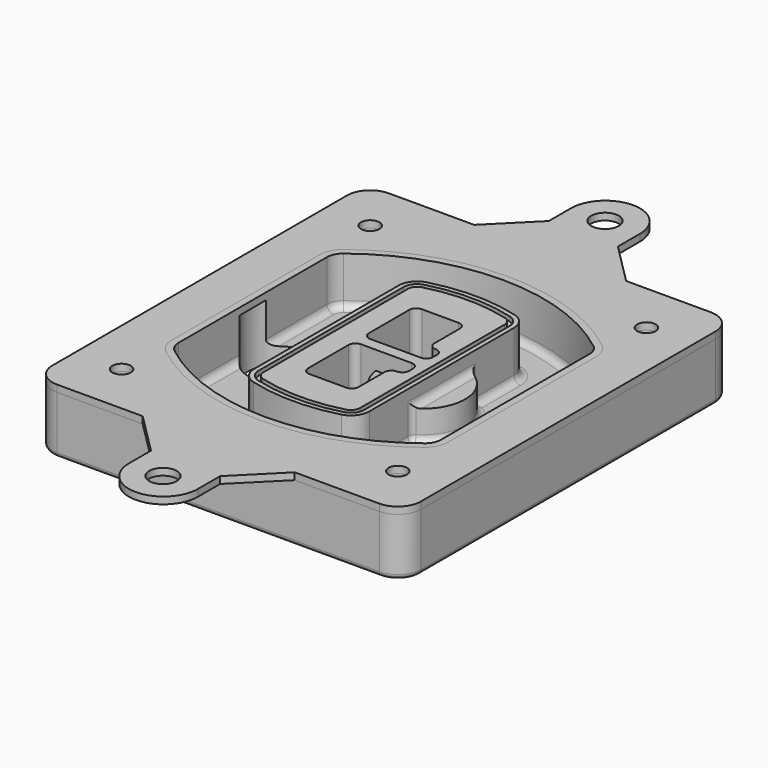
from build123d import *

# Parameters (mm, degrees)
F0_R      = 4
F1_DEPTH  = 25
F2_DEPTH  = 3
F3_DEPTH  = 18
F5_DEPTH  = 21
F6_DEPTH  = 2
F8_DEPTH  = 20
F9_DEPTH  = 16
F10_DEPTH = 25
F7_R      = 6
F7_R_2    = 4
F11_DEPTH = 6
F13_DEPTH = 9
F14_R     = 3
F15_R     = 2
F16_R     = 4
F16_R_2   = 6
F17_DEPTH = 3


with BuildPart() as f1:
    # F0 (on Top) → F1 (new body)
    with BuildSketch(Plane.XY):
        with BuildLine():
            ThreePointArc((-80, -80), (-77.0710678119, -87.0710678119), (-70, -90))
            Line((-70, -90), (70, -90))
            ThreePointArc((70, -90), (77.0710678119, -87.0710678119), (80, -80))
            Line((80, -80), (80, 80))
            ThreePointArc((80, 80), (77.0710678119, 87.0710678119), (70, 90))
            Line((70, 90), (-70, 90))
            ThreePointArc((-70, 90), (-77.0710678119, 87.0710678119), (-80, 80))
            Line((-80, 80), (-80, -80))
        make_face()
        with Locations((-60, -67.5)):
            Circle(F0_R, mode=Mode.SUBTRACT)
        with Locations((60, -67.5)):
            Circle(F0_R, mode=Mode.SUBTRACT)
        with Locations((-60, 67.5)):
            Circle(F0_R, mode=Mode.SUBTRACT)
        with BuildLine():
            ThreePointArc((-64, 40.2934422872), (-62.5820384798, 46.4328484224), (-58.6153846154, 51.3286200352))
            ThreePointArc((-58.6153846154, 51.3286200352), (0, 71.5), (58.6153846154, 51.3286200352))
            ThreePointArc((58.6153846154, 51.3286200352), (62.5820384798, 46.4328484224), (64, 40.2934422872))
            Line((64, 40.2934422872), (64, -40.2934422872))
            ThreePointArc((64, -40.2934422872), (62.5820384798, -46.4328484224), (58.6153846154, -51.3286200352))
            ThreePointArc((58.6153846154, -51.3286200352), (0, -71.5), (-58.6153846154, -51.3286200352))
            ThreePointArc((-58.6153846154, -51.3286200352), (-62.5820384798, -46.4328484224), (-64, -40.2934422872))
            Line((-64, -40.2934422872), (-64, 40.2934422872))
        make_face(mode=Mode.SUBTRACT)
        with Locations((60, 67.5)):
            Circle(F0_R, mode=Mode.SUBTRACT)
        with BuildLine():
            ThreePointArc((58.6153846154, 51.3286200352), (0, 71.5), (-58.6153846154, 51.3286200352))
            ThreePointArc((-58.6153846154, 51.3286200352), (-62.5820384798, 46.4328484224), (-64, 40.2934422872))
            Line((-64, 40.2934422872), (-64, -40.2934422872))
            ThreePointArc((-64, -40.2934422872), (-62.5820384798, -46.4328484224), (-58.6153846154, -51.3286200352))
            ThreePointArc((-58.6153846154, -51.3286200352), (0, -71.5), (58.6153846154, -51.3286200352))
            ThreePointArc((58.6153846154, -51.3286200352), (62.5820384798, -46.4328484224), (64, -40.2934422872))
            Line((64, -40.2934422872), (64, 40.2934422872))
            ThreePointArc((64, 40.2934422872), (62.5820384798, 46.4328484224), (58.6153846154, 51.3286200352))
        make_face()
        with BuildLine():
            Line((-60, -40.2934422872), (-60, 40.2934422872))
            ThreePointArc((-60, 40.2934422872), (-58.9871703427, 44.6787323838), (-56.1538461538, 48.1757121072))
            ThreePointArc((-56.1538461538, 48.1757121072), (0, 67.5), (56.1538461538, 48.1757121072))
            ThreePointArc((56.1538461538, 48.1757121072), (58.9871703427, 44.6787323838), (60, 40.2934422872))
            Line((60, 40.2934422872), (60, -40.2934422872))
            ThreePointArc((60, -40.2934422872), (58.9871703427, -44.6787323838), (56.1538461538, -48.1757121072))
            ThreePointArc((56.1538461538, -48.1757121072), (0, -67.5), (-56.1538461538, -48.1757121072))
            ThreePointArc((-56.1538461538, -48.1757121072), (-58.9871703427, -44.6787323838), (-60, -40.2934422872))
        make_face(mode=Mode.SUBTRACT)
        with BuildLine():
            ThreePointArc((-56.1538461538, 48.1757121072), (-58.9871703427, 44.6787323838), (-60, 40.2934422872))
            Line((-60, 40.2934422872), (-60, -40.2934422872))
            ThreePointArc((-60, -40.2934422872), (-58.9871703427, -44.6787323838), (-56.1538461538, -48.1757121072))
            ThreePointArc((-56.1538461538, -48.1757121072), (0, -67.5), (56.1538461538, -48.1757121072))
            ThreePointArc((56.1538461538, -48.1757121072), (58.9871703427, -44.6787323838), (60, -40.2934422872))
            Line((60, -40.2934422872), (60, 40.2934422872))
            ThreePointArc((60, 40.2934422872), (58.9871703427, 44.6787323838), (56.1538461538, 48.1757121072))
            ThreePointArc((56.1538461538, 48.1757121072), (0, 67.5), (-56.1538461538, 48.1757121072))
        make_face()
        with BuildLine():
            ThreePointArc((54.3076923077, 45.8110311612), (56.2910192399, 43.3631453548), (57, 40.2934422872))
            Line((57, 40.2934422872), (57, -40.2934422872))
            ThreePointArc((57, -40.2934422872), (56.2910192399, -43.3631453548), (54.3076923077, -45.8110311612))
            ThreePointArc((54.3076923077, -45.8110311612), (0, -64.5), (-54.3076923077, -45.8110311612))
            ThreePointArc((-54.3076923077, -45.8110311612), (-56.2910192399, -43.3631453548), (-57, -40.2934422872))
            Line((-57, -40.2934422872), (-57, 40.2934422872))
            ThreePointArc((-57, 40.2934422872), (-56.2910192399, 43.3631453548), (-54.3076923077, 45.8110311612))
            ThreePointArc((-54.3076923077, 45.8110311612), (0, 64.5), (54.3076923077, 45.8110311612))
        make_face(mode=Mode.SUBTRACT)
        with BuildLine():
            Line((57, -40.2934422872), (57, 40.2934422872))
            ThreePointArc((57, 40.2934422872), (56.2910192399, 43.3631453548), (54.3076923077, 45.8110311612))
            ThreePointArc((54.3076923077, 45.8110311612), (0, 64.5), (-54.3076923077, 45.8110311612))
            ThreePointArc((-54.3076923077, 45.8110311612), (-56.2910192399, 43.3631453548), (-57, 40.2934422872))
            Line((-57, 40.2934422872), (-57, -40.2934422872))
            ThreePointArc((-57, -40.2934422872), (-56.2910192399, -43.3631453548), (-54.3076923077, -45.8110311612))
            ThreePointArc((-54.3076923077, -45.8110311612), (0, -64.5), (54.3076923077, -45.8110311612))
            ThreePointArc((54.3076923077, -45.8110311612), (56.2910192399, -43.3631453548), (57, -40.2934422872))
        make_face()
    extrude(amount=-F1_DEPTH)

    # F0 (on Top) → F2 (join)
    with BuildSketch(Plane.XY):
        with BuildLine():
            ThreePointArc((-56.1538461538, 48.1757121072), (-58.9871703427, 44.6787323838), (-60, 40.2934422872))
            Line((-60, 40.2934422872), (-60, -40.2934422872))
            ThreePointArc((-60, -40.2934422872), (-58.9871703427, -44.6787323838), (-56.1538461538, -48.1757121072))
            ThreePointArc((-56.1538461538, -48.1757121072), (0, -67.5), (56.1538461538, -48.1757121072))
            ThreePointArc((56.1538461538, -48.1757121072), (58.9871703427, -44.6787323838), (60, -40.2934422872))
            Line((60, -40.2934422872), (60, 40.2934422872))
            ThreePointArc((60, 40.2934422872), (58.9871703427, 44.6787323838), (56.1538461538, 48.1757121072))
            ThreePointArc((56.1538461538, 48.1757121072), (0, 67.5), (-56.1538461538, 48.1757121072))
        make_face()
        with BuildLine():
            ThreePointArc((54.3076923077, 45.8110311612), (56.2910192399, 43.3631453548), (57, 40.2934422872))
            Line((57, 40.2934422872), (57, -40.2934422872))
            ThreePointArc((57, -40.2934422872), (56.2910192399, -43.3631453548), (54.3076923077, -45.8110311612))
            ThreePointArc((54.3076923077, -45.8110311612), (0, -64.5), (-54.3076923077, -45.8110311612))
            ThreePointArc((-54.3076923077, -45.8110311612), (-56.2910192399, -43.3631453548), (-57, -40.2934422872))
            Line((-57, -40.2934422872), (-57, 40.2934422872))
            ThreePointArc((-57, 40.2934422872), (-56.2910192399, 43.3631453548), (-54.3076923077, 45.8110311612))
            ThreePointArc((-54.3076923077, 45.8110311612), (0, 64.5), (54.3076923077, 45.8110311612))
        make_face(mode=Mode.SUBTRACT)
    extrude(amount=F2_DEPTH)

    # F0 (on Top) → F3 (cut)
    with BuildSketch(Plane.XY):
        with BuildLine():
            Line((57, -40.2934422872), (57, 40.2934422872))
            ThreePointArc((57, 40.2934422872), (56.2910192399, 43.3631453548), (54.3076923077, 45.8110311612))
            ThreePointArc((54.3076923077, 45.8110311612), (0, 64.5), (-54.3076923077, 45.8110311612))
            ThreePointArc((-54.3076923077, 45.8110311612), (-56.2910192399, 43.3631453548), (-57, 40.2934422872))
            Line((-57, 40.2934422872), (-57, -40.2934422872))
            ThreePointArc((-57, -40.2934422872), (-56.2910192399, -43.3631453548), (-54.3076923077, -45.8110311612))
            ThreePointArc((-54.3076923077, -45.8110311612), (0, -64.5), (54.3076923077, -45.8110311612))
            ThreePointArc((54.3076923077, -45.8110311612), (56.2910192399, -43.3631453548), (57, -40.2934422872))
        make_face()
    extrude(amount=-F3_DEPTH, mode=Mode.SUBTRACT)

    # F4 (on face) → F5 (join, through all)
    with BuildSketch(Plane.XY.offset(3)):
        with BuildLine():
            ThreePointArc((-25, -39.2465276821), (-23.3511545998, -44.1109737193), (-19.0842911877, -46.9702398883))
            ThreePointArc((-19.0842911877, -46.9702398883), (0, -49.5), (19.0842911877, -46.9702398883))
            ThreePointArc((19.0842911877, -46.9702398883), (23.3511545998, -44.1109737193), (25, -39.2465276821))
            Line((25, -39.2465276821), (25, 39.2465276821))
            ThreePointArc((25, 39.2465276821), (23.3511545998, 44.1109737193), (19.0842911877, 46.9702398883))
            ThreePointArc((19.0842911877, 46.9702398883), (0, 49.5), (-19.0842911877, 46.9702398883))
            ThreePointArc((-19.0842911877, 46.9702398883), (-23.3511545998, 44.1109737193), (-25, 39.2465276821))
            Line((-25, 39.2465276821), (-25, -39.2465276821))
        make_face()
        with BuildLine():
            ThreePointArc((18.5632183908, 45.0393118368), (21.7633659499, 42.89486221), (23, 39.2465276821))
            Line((23, 39.2465276821), (23, -39.2465276821))
            ThreePointArc((23, -39.2465276821), (21.7633659499, -42.89486221), (18.5632183908, -45.0393118368))
            ThreePointArc((18.5632183908, -45.0393118368), (0, -47.5), (-18.5632183908, -45.0393118368))
            ThreePointArc((-18.5632183908, -45.0393118368), (-21.7633659499, -42.89486221), (-23, -39.2465276821))
            Line((-23, -39.2465276821), (-23, 39.2465276821))
            ThreePointArc((-23, 39.2465276821), (-21.7633659499, 42.89486221), (-18.5632183908, 45.0393118368))
            ThreePointArc((-18.5632183908, 45.0393118368), (0, 47.5), (18.5632183908, 45.0393118368))
        make_face(mode=Mode.SUBTRACT)
        with BuildLine():
            Line((23, -39.2465276821), (23, 39.2465276821))
            ThreePointArc((23, 39.2465276821), (21.7633659499, 42.89486221), (18.5632183908, 45.0393118368))
            ThreePointArc((18.5632183908, 45.0393118368), (0, 47.5), (-18.5632183908, 45.0393118368))
            ThreePointArc((-18.5632183908, 45.0393118368), (-21.7633659499, 42.89486221), (-23, 39.2465276821))
            Line((-23, 39.2465276821), (-23, -39.2465276821))
            ThreePointArc((-23, -39.2465276821), (-21.7633659499, -42.89486221), (-18.5632183908, -45.0393118368))
            ThreePointArc((-18.5632183908, -45.0393118368), (0, -47.5), (18.5632183908, -45.0393118368))
            ThreePointArc((18.5632183908, -45.0393118368), (21.7633659499, -42.89486221), (23, -39.2465276821))
        make_face()
        with BuildLine():
            ThreePointArc((18.0421455939, 43.1083837852), (20.1755772999, 41.6787507007), (21, 39.2465276821))
            Line((21, 39.2465276821), (21, -39.2465276821))
            ThreePointArc((21, -39.2465276821), (20.1755772999, -41.6787507007), (18.0421455939, -43.1083837852))
            ThreePointArc((18.0421455939, -43.1083837852), (0, -45.5), (-18.0421455939, -43.1083837852))
            ThreePointArc((-18.0421455939, -43.1083837852), (-20.1755772999, -41.6787507007), (-21, -39.2465276821))
            Line((-21, -39.2465276821), (-21, 39.2465276821))
            ThreePointArc((-21, 39.2465276821), (-20.1755772999, 41.6787507007), (-18.0421455939, 43.1083837852))
            ThreePointArc((-18.0421455939, 43.1083837852), (0, 45.5), (18.0421455939, 43.1083837852))
        make_face(mode=Mode.SUBTRACT)
        with BuildLine():
            Line((21, -39.2465276821), (21, 39.2465276821))
            ThreePointArc((21, 39.2465276821), (20.1755772999, 41.6787507007), (18.0421455939, 43.1083837852))
            ThreePointArc((18.0421455939, 43.1083837852), (0, 45.5), (-18.0421455939, 43.1083837852))
            ThreePointArc((-18.0421455939, 43.1083837852), (-20.1755772999, 41.6787507007), (-21, 39.2465276821))
            Line((-21, 39.2465276821), (-21, -39.2465276821))
            ThreePointArc((-21, -39.2465276821), (-20.1755772999, -41.6787507007), (-18.0421455939, -43.1083837852))
            ThreePointArc((-18.0421455939, -43.1083837852), (0, -45.5), (18.0421455939, -43.1083837852))
            ThreePointArc((18.0421455939, -43.1083837852), (20.1755772999, -41.6787507007), (21, -39.2465276821))
        make_face()
        with BuildLine():
            Line((-8, -2.5), (14, -2.5))
            ThreePointArc((14, -2.5), (16.1213203436, -3.3786796564), (17, -5.5))
            Line((17, -5.5), (17, -7.5))
            ThreePointArc((17, -7.5), (16.1213203436, -9.6213203436), (14, -10.5))
            ThreePointArc((14, -10.5), (11.8786796564, -11.3786796564), (11, -13.5))
            Line((11, -13.5), (11, -27.5))
            ThreePointArc((11, -27.5), (10.1213203436, -29.6213203436), (8, -30.5))
            Line((8, -30.5), (-8, -30.5))
            ThreePointArc((-8, -30.5), (-10.1213203436, -29.6213203436), (-11, -27.5))
            Line((-11, -27.5), (-11, -5.5))
            ThreePointArc((-11, -5.5), (-10.1213203436, -3.3786796564), (-8, -2.5))
        make_face(mode=Mode.SUBTRACT)
        with BuildLine():
            ThreePointArc((-8, 2.5), (-10.1213203436, 3.3786796564), (-11, 5.5))
            Line((-11, 5.5), (-11, 27.5))
            ThreePointArc((-11, 27.5), (-10.1213203436, 29.6213203436), (-8, 30.5))
            Line((-8, 30.5), (8, 30.5))
            ThreePointArc((8, 30.5), (10.1213203436, 29.6213203436), (11, 27.5))
            Line((11, 27.5), (11, 13.5))
            ThreePointArc((11, 13.5), (11.8786796564, 11.3786796564), (14, 10.5))
            ThreePointArc((14, 10.5), (16.1213203436, 9.6213203436), (17, 7.5))
            Line((17, 7.5), (17, 5.5))
            ThreePointArc((17, 5.5), (16.1213203436, 3.3786796564), (14, 2.5))
            Line((14, 2.5), (-8, 2.5))
        make_face(mode=Mode.SUBTRACT)
    extrude(amount=-F5_DEPTH)

    # F4 (on face) → F6 (cut)
    with BuildSketch(Plane.XY.offset(3)):
        with BuildLine():
            Line((23, -39.2465276821), (23, 39.2465276821))
            ThreePointArc((23, 39.2465276821), (21.7633659499, 42.89486221), (18.5632183908, 45.0393118368))
            ThreePointArc((18.5632183908, 45.0393118368), (0, 47.5), (-18.5632183908, 45.0393118368))
            ThreePointArc((-18.5632183908, 45.0393118368), (-21.7633659499, 42.89486221), (-23, 39.2465276821))
            Line((-23, 39.2465276821), (-23, -39.2465276821))
            ThreePointArc((-23, -39.2465276821), (-21.7633659499, -42.89486221), (-18.5632183908, -45.0393118368))
            ThreePointArc((-18.5632183908, -45.0393118368), (0, -47.5), (18.5632183908, -45.0393118368))
            ThreePointArc((18.5632183908, -45.0393118368), (21.7633659499, -42.89486221), (23, -39.2465276821))
        make_face()
        with BuildLine():
            ThreePointArc((18.0421455939, 43.1083837852), (20.1755772999, 41.6787507007), (21, 39.2465276821))
            Line((21, 39.2465276821), (21, -39.2465276821))
            ThreePointArc((21, -39.2465276821), (20.1755772999, -41.6787507007), (18.0421455939, -43.1083837852))
            ThreePointArc((18.0421455939, -43.1083837852), (0, -45.5), (-18.0421455939, -43.1083837852))
            ThreePointArc((-18.0421455939, -43.1083837852), (-20.1755772999, -41.6787507007), (-21, -39.2465276821))
            Line((-21, -39.2465276821), (-21, 39.2465276821))
            ThreePointArc((-21, 39.2465276821), (-20.1755772999, 41.6787507007), (-18.0421455939, 43.1083837852))
            ThreePointArc((-18.0421455939, 43.1083837852), (0, 45.5), (18.0421455939, 43.1083837852))
        make_face(mode=Mode.SUBTRACT)
    extrude(amount=-F6_DEPTH, mode=Mode.SUBTRACT)

    # F7 (on face) → F8 (join)
    with BuildSketch(Plane(origin=(0, 0, -25), x_dir=(1, 0, 0), z_dir=(0, 0, -1))):
        with BuildLine():
            ThreePointArc((3.28842436, 0), (16.7567035675, 13.4682792075), (30.224982775, 0))
            Line((30.224982775, 0), (35.224982775, 0))
            ThreePointArc((35.224982775, 0), (16.7567035675, 18.4682792075), (-1.71157564, 0))
            Line((-1.71157564, 0), (3.28842436, 0))
        make_face()
        with BuildLine():
            Line((3.28842436, 0), (30.224982775, 0))
            ThreePointArc((30.224982775, 0), (16.7567035675, 13.4682792075), (3.28842436, 0))
        make_face()
        with BuildLine():
            ThreePointArc((3.28842436, 0), (16.7567035675, -13.4682792075), (30.224982775, 0))
            Line((30.224982775, 0), (3.28842436, 0))
        make_face()
        with BuildLine():
            Line((35.224982775, 0), (30.224982775, 0))
            ThreePointArc((30.224982775, 0), (16.7567035675, -13.4682792075), (3.28842436, 0))
            Line((3.28842436, 0), (-1.71157564, 0))
            ThreePointArc((-1.71157564, 0), (16.7567035675, -18.4682792075), (35.224982775, 0))
        make_face()
    extrude(amount=-F8_DEPTH)

    # F7 (on face) → F9 (cut)
    with BuildSketch(Plane(origin=(0, 0, -25), x_dir=(1, 0, 0), z_dir=(0, 0, -1))):
        with BuildLine():
            Line((3.28842436, 0), (30.224982775, 0))
            ThreePointArc((30.224982775, 0), (16.7567035675, 13.4682792075), (3.28842436, 0))
        make_face()
        with BuildLine():
            ThreePointArc((3.28842436, 0), (16.7567035675, -13.4682792075), (30.224982775, 0))
            Line((30.224982775, 0), (3.28842436, 0))
        make_face()
    extrude(amount=-F9_DEPTH, mode=Mode.SUBTRACT)

    # F7 (on face) → F10 (cut)
    with BuildSketch(Plane(origin=(0, 0, -25), x_dir=(1, 0, 0), z_dir=(0, 0, -1))):
        with BuildLine():
            Line((-59.0318229325, 0), (-32.0952645175, 0))
            ThreePointArc((-32.0952645175, 0), (-45.563543725, 13.4682792075), (-59.0318229325, 0))
        make_face()
        with BuildLine():
            ThreePointArc((-59.0318229325, 0), (-45.563543725, -13.4682792075), (-32.0952645175, 0))
            Line((-32.0952645175, 0), (-59.0318229325, 0))
        make_face()
    extrude(amount=-F10_DEPTH, mode=Mode.SUBTRACT)

    # F7 (on face) → F11 (cut)
    with BuildSketch(Plane(origin=(0, 0, -25), x_dir=(1, 0, 0), z_dir=(0, 0, -1))):
        with Locations((60, -67.5)):
            Circle(F7_R)
        with Locations((60, -67.5)):
            Circle(F7_R_2, mode=Mode.SUBTRACT)
        with Locations((60, -67.5)):
            Circle(F7_R)
        with Locations((60, -67.5)):
            Circle(F7_R_2, mode=Mode.SUBTRACT)
        with Locations((-60, -67.5)):
            Circle(F7_R)
        with Locations((-60, -67.5)):
            Circle(F7_R_2, mode=Mode.SUBTRACT)
        with Locations((-60, -67.5)):
            Circle(F7_R)
        with Locations((-60, -67.5)):
            Circle(F7_R_2, mode=Mode.SUBTRACT)
        with Locations((-60, 67.5)):
            Circle(F7_R)
        with Locations((-60, 67.5)):
            Circle(F7_R_2, mode=Mode.SUBTRACT)
        with Locations((-60, 67.5)):
            Circle(F7_R)
        with Locations((-60, 67.5)):
            Circle(F7_R_2, mode=Mode.SUBTRACT)
        with Locations((60, 67.5)):
            Circle(F7_R)
        with Locations((60, 67.5)):
            Circle(F7_R_2, mode=Mode.SUBTRACT)
        with Locations((60, 67.5)):
            Circle(F7_R)
        with Locations((60, 67.5)):
            Circle(F7_R_2, mode=Mode.SUBTRACT)
    extrude(amount=-F11_DEPTH, mode=Mode.SUBTRACT)

    # F12 (on face) → F13 (cut, through all)
    with BuildSketch(Plane(origin=(0, 0, -9), x_dir=(1, 0, 0), z_dir=(0, 0, -1))):
        with BuildLine():
            Line((11, 13.5), (11, 17.5481537753))
            ThreePointArc((11, 17.5481537753), (2.5696536419, 11.8239143813), (-1.5415842455, 2.5))
            Line((-1.5415842455, 2.5), (3.5224848595, 2.5))
            ThreePointArc((3.5224848595, 2.5), (6.1857188154, 8.3455872281), (11.2536447004, 12.2927168648))
            ThreePointArc((11.2536447004, 12.2927168648), (11.0640958889, 12.8831798879), (11, 13.5))
        make_face()
        with BuildLine():
            ThreePointArc((11.2536447004, -12.2927168648), (6.1857188154, -8.3455872281), (3.5224848595, -2.5))
            Line((3.5224848595, -2.5), (-1.5415842455, -2.5))
            ThreePointArc((-1.5415842455, -2.5), (2.5696536419, -11.8239143813), (11, -17.5481537753))
            Line((11, -17.5481537753), (11, -13.5))
            ThreePointArc((11, -13.5), (11.0640958889, -12.8831798879), (11.2536447004, -12.2927168648))
        make_face()
        with BuildLine():
            ThreePointArc((11.2536447004, 12.2927168648), (6.1857188154, 8.3455872281), (3.5224848595, 2.5))
            Line((3.5224848595, 2.5), (14, 2.5))
            ThreePointArc((14, 2.5), (16.1213203436, 3.3786796564), (17, 5.5))
            Line((17, 5.5), (17, 7.5))
            ThreePointArc((17, 7.5), (16.1213203436, 9.6213203436), (14, 10.5))
            ThreePointArc((14, 10.5), (12.3601599782, 10.9878446101), (11.2536447004, 12.2927168648))
        make_face()
        with BuildLine():
            Line((14, -2.5), (3.5224848595, -2.5))
            ThreePointArc((3.5224848595, -2.5), (6.1857188154, -8.3455872281), (11.2536447004, -12.2927168648))
            ThreePointArc((11.2536447004, -12.2927168648), (12.3601599782, -10.9878446101), (14, -10.5))
            ThreePointArc((14, -10.5), (16.1213203436, -9.6213203436), (17, -7.5))
            Line((17, -7.5), (17, -5.5))
            ThreePointArc((17, -5.5), (16.1213203436, -3.3786796564), (14, -2.5))
        make_face()
    extrude(amount=F13_DEPTH, mode=Mode.SUBTRACT)

    # F14
    f14_edges = [f1.edges().sort_by_distance(p)[0] for p in [
        (-57, -23.703476, -18),
        (-57, 23.703476, -18),
        (25, 0, -5),
        (25, 16.526506, -11.5),
        (25, -16.526506, -11.5),
        (25, -27.886517, -18),
        (35.224983, 0, -18),
    ]]
    fillet(f14_edges, radius=F14_R)

    # F15
    f15_edges = [f1.edges().sort_by_distance(p)[0] for p in [
        (0, -90, -25),
    ]]
    fillet(f15_edges, radius=F15_R)


with BuildPart() as f17:
    # F16 (on face) → F17 (new body, through all)
    with BuildSketch(Plane.XY):
        with BuildLine():
            Line((-32.8133700563, 90), (-70, 90))
            ThreePointArc((-70, 90), (-77.0710678119, 87.0710678119), (-80, 80))
            Line((-80, 80), (-80, -80))
            ThreePointArc((-80, -80), (-77.0710678119, -87.0710678119), (-70, -90))
            Line((-70, -90), (-32.8133700563, -90))
            Line((-32.8133700563, -90), (33.1866299437, -90))
            Line((33.1866299437, -90), (70, -90))
            ThreePointArc((70, -90), (77.0710678119, -87.0710678119), (80, -80))
            Line((80, -80), (80, 80))
            ThreePointArc((80, 80), (77.0710678119, 87.0710678119), (70, 90))
            Line((70, 90), (33.1866299437, 90))
            Line((33.1866299437, 90), (-32.8133700563, 90))
        make_face()
        with Locations((-60, -67.5)):
            Circle(F16_R, mode=Mode.SUBTRACT)
        with Locations((60, -67.5)):
            Circle(F16_R, mode=Mode.SUBTRACT)
        with Locations((-60, 67.5)):
            Circle(F16_R, mode=Mode.SUBTRACT)
        with BuildLine():
            ThreePointArc((56.1538461538, -48.1757121072), (0, -67.5), (-56.1538461538, -48.1757121072))
            ThreePointArc((-56.1538461538, -48.1757121072), (-58.9871703427, -44.6787323838), (-60, -40.2934422872))
            Line((-60, -40.2934422872), (-60, 40.2934422872))
            ThreePointArc((-60, 40.2934422872), (-58.9871703427, 44.6787323838), (-56.1538461538, 48.1757121072))
            ThreePointArc((-56.1538461538, 48.1757121072), (0, 67.5), (56.1538461538, 48.1757121072))
            ThreePointArc((56.1538461538, 48.1757121072), (58.9871703427, 44.6787323838), (60, 40.2934422872))
            Line((60, 40.2934422872), (60, -40.2934422872))
            ThreePointArc((60, -40.2934422872), (58.9871703427, -44.6787323838), (56.1538461538, -48.1757121072))
        make_face(mode=Mode.SUBTRACT)
        with Locations((60, 67.5)):
            Circle(F16_R, mode=Mode.SUBTRACT)
        with BuildLine():
            Line((-14.8133700563, 108), (-32.8133700563, 90))
            Line((-32.8133700563, 90), (33.1866299437, 90))
            Line((33.1866299437, 90), (15.1866299437, 108))
            Line((15.1866299437, 108), (15.1866299437, 120))
            ThreePointArc((15.1866299437, 120), (0.1866299437, 135), (-14.8133700563, 120))
            Line((-14.8133700563, 120), (-14.8133700563, 108))
        make_face()
        with Locations((0, 120)):
            Circle(F16_R_2, mode=Mode.SUBTRACT)
        with BuildLine():
            Line((33.1866299437, -90), (-32.8133700563, -90))
            Line((-32.8133700563, -90), (-14.8133700563, -108))
            Line((-14.8133700563, -108), (-14.8133700563, -120))
            ThreePointArc((-14.8133700563, -120), (0.1866299437, -135), (15.1866299437, -120))
            Line((15.1866299437, -120), (15.1866299437, -108))
            Line((15.1866299437, -108), (33.1866299437, -90))
        make_face()
        with Locations((0, -120)):
            Circle(F16_R_2, mode=Mode.SUBTRACT)
    extrude(amount=F17_DEPTH)


solid = Compound([f1.part, f17.part])
